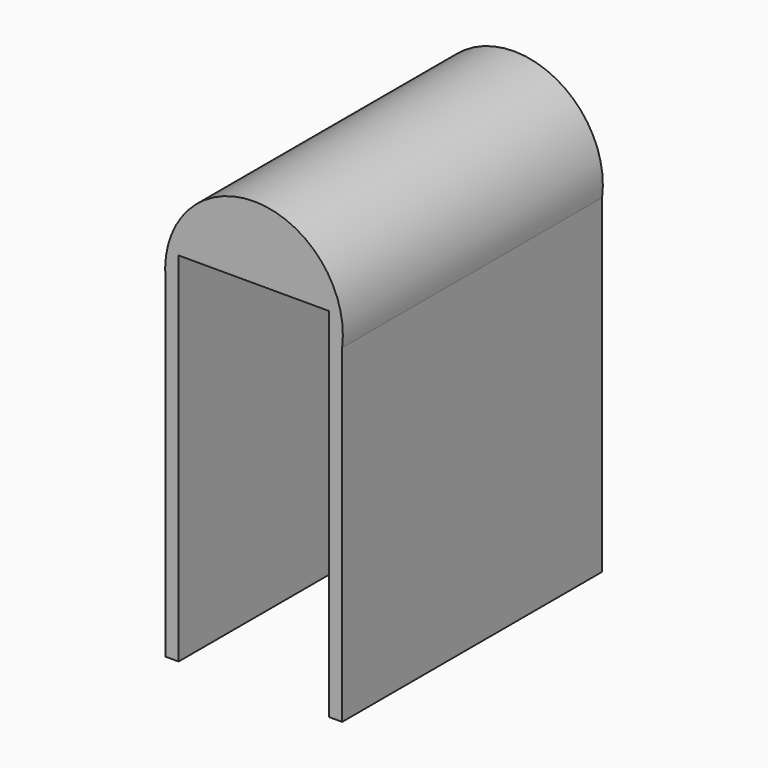
from build123d import *

# Parameters (mm, degrees)
F1_DEPTH = 2.54
F2_W     = 1.176077
F2_H     = 2.54
F3_DEPTH = 2.794


with BuildPart() as f1:
    # F0 (on Front) → F1 (new body)
    with BuildSketch(Plane.XZ):
        with BuildLine():
            Line((-3.675181, 20.895714), (-3.675181, 23.470577))
            ThreePointArc((-3.675181, 23.470577), (-4.357243, 24.25382), (-5.054458, 23.484033))
            Line((-5.054458, 23.484033), (-5.054458, 20.895714))
            Line((-5.054458, 20.895714), (-3.675181, 20.895714))
        make_face()
    extrude(amount=F1_DEPTH)

    # F2 (on face) → F3 (cut)
    with BuildSketch(Plane(origin=(0, 0, 20.895714), x_dir=(1, 0, 0), z_dir=(0, 0, -1))):
        with Locations((-4.364819, 1.27)):
            Rectangle(F2_W, F2_H)
    extrude(amount=-F3_DEPTH, mode=Mode.SUBTRACT)


solid = f1.part
